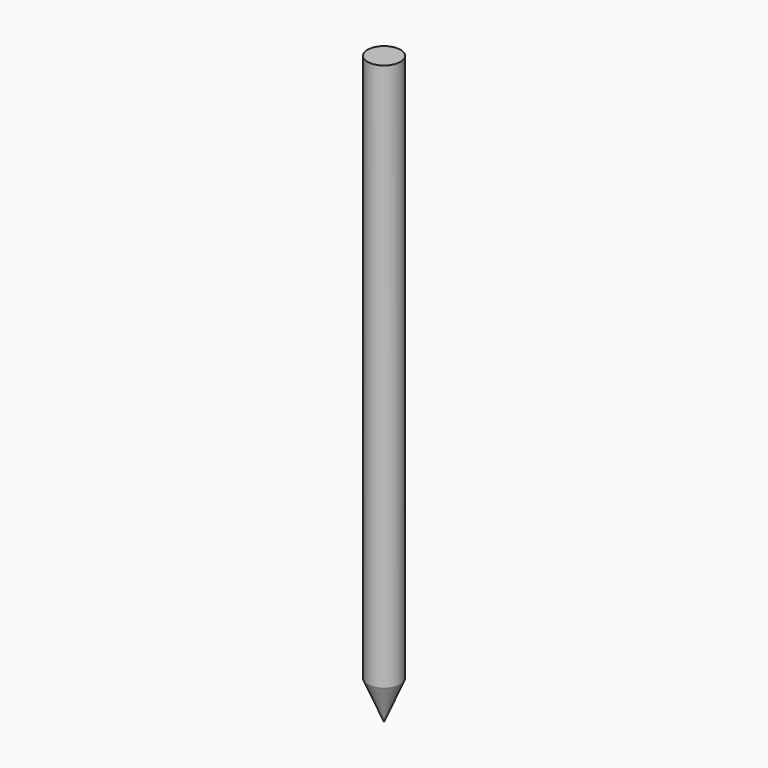
from build123d import *

# Parameters (mm, degrees)
F0_R     = 3.81
F1_DEPTH = 127


with BuildPart() as f1:
    # F0 (on Top) → F1 (new body)
    with BuildSketch(Plane.XY):
        Circle(F0_R)
    extrude(amount=F1_DEPTH)

    # F2 (on Front) → F3 (revolve)
    with BuildSketch(Plane.XZ):
        Polygon((3.81, 0), (0, 0), (0, -8.89), align=None)
    revolve(axis=Axis((0, 0, -4.445), (0, 0, -1)))


solid = f1.part
